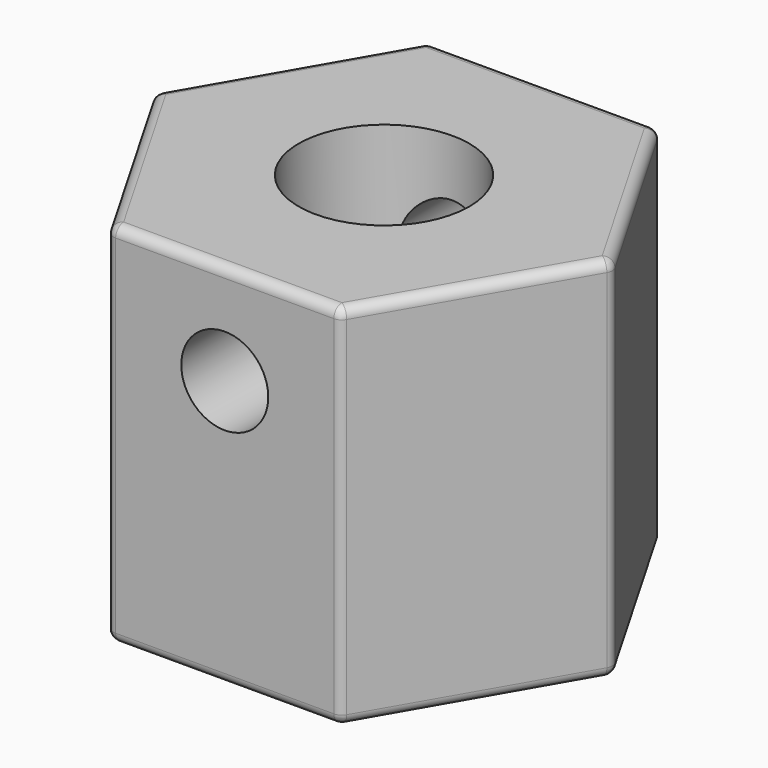
from build123d import *

# Parameters (mm, degrees)
PAD_DEPTH       = 11
SKETCH001_R     = 2.55
POCKET_DEPTH    = 5
SKETCH002_R     = 1.3
POCKET001_DEPTH = 7
SKETCH003_R     = 1.3
POCKET002_DEPTH = 12
FILLET_R        = 0.3
FILLET001_R     = 0.3
FILLET002_R     = 0.3


with BuildPart() as part:
    # Sketch → Pad (new body)
    with BuildSketch(Plane.XY):
        Polygon((6.870468, 0), (3.435234, 5.95), (-3.435234, 5.95), (-6.870468, 0), (-3.435234, -5.95), (3.435234, -5.95), align=None)
    extrude(amount=PAD_DEPTH)

    # Sketch001 (on Face8 of Pad) → Pocket (cut)
    with BuildSketch(Plane.XY.offset(11)):
        Circle(SKETCH001_R)
    extrude(amount=-POCKET_DEPTH, mode=Mode.SUBTRACT)

    # Sketch002 (on Face4 of Pocket) → Pocket001 (cut)
    with BuildSketch(Plane(origin=(0, 0, 0), x_dir=(1, 0, 0), z_dir=(0, 0, -1))):
        Circle(SKETCH002_R)
    extrude(amount=-POCKET001_DEPTH, mode=Mode.SUBTRACT)

    # Sketch003 (on Face6 of Pocket001) → Pocket002 (cut)
    with BuildSketch(Plane.XZ.offset(5.95)):
        with Locations((0, 8)):
            Circle(SKETCH003_R)
    extrude(amount=-POCKET002_DEPTH, mode=Mode.SUBTRACT)

    # Fillet
    fillet_edges = [part.edges().sort_by_distance(p)[0] for p in [
        (5.152851, -2.975, 11),
        (0, -5.95, 11),
        (-5.152851, -2.975, 11),
        (-5.152851, 2.975, 11),
        (0, 5.95, 11),
        (5.152851, 2.975, 11),
    ]]
    fillet(fillet_edges, radius=FILLET_R)

    # Fillet001
    fillet001_edges = [part.edges().sort_by_distance(p)[0] for p in [
        (0, 5.95, 0),
        (-5.152851, 2.975, 0),
        (-5.152851, -2.975, 0),
        (0, -5.95, 0),
        (5.152851, -2.975, 0),
        (5.152851, 2.975, 0),
    ]]
    fillet(fillet001_edges, radius=FILLET001_R)

    # Fillet002
    fillet002_edges = [part.edges().sort_by_distance(p)[0] for p in [
        (3.435234, -5.95, 5.5),
        (6.870468, 0, 5.5),
        (-3.435234, -5.95, 5.5),
        (-6.870468, 0, 5.5),
        (-3.435234, 5.95, 5.5),
        (3.435234, 5.95, 5.5),
    ]]
    fillet(fillet002_edges, radius=FILLET002_R)


solid = part.part
